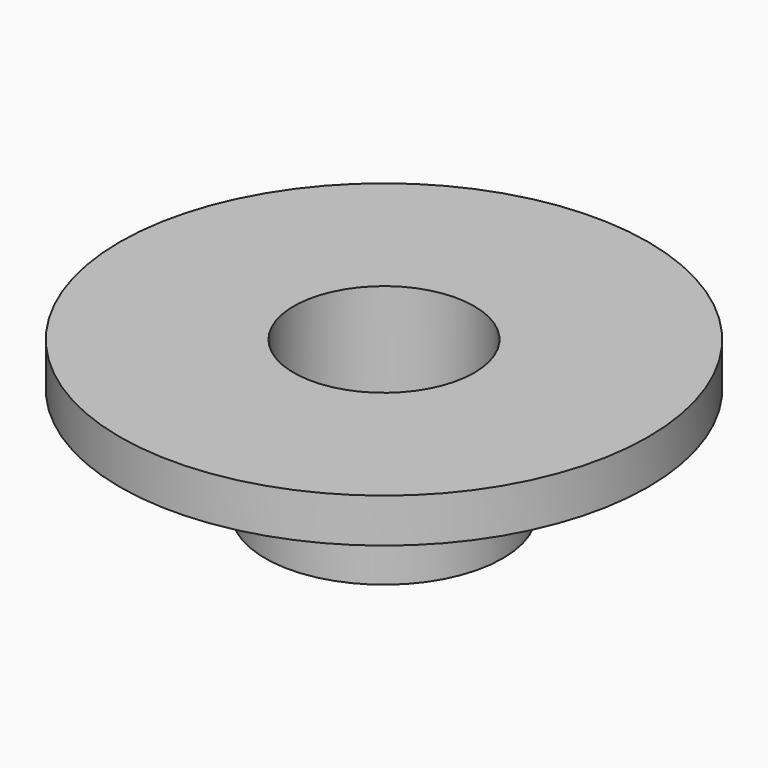
from build123d import *

# Parameters (mm, degrees)
SKETCH_R      = 6
SKETCH_R_2    = 2.05
PAD_DEPTH     = 1
SKETCH001_R   = 2.7
SKETCH001_R_2 = 2.05
PAD001_DEPTH  = 2.5


with BuildPart() as part:
    # Sketch → Pad (new body)
    with BuildSketch(Plane.XY):
        Circle(SKETCH_R)
        Circle(SKETCH_R_2, mode=Mode.SUBTRACT)
    extrude(amount=PAD_DEPTH)

    # Sketch001 (on Face3 of Pad) → Pad001 (join)
    with BuildSketch(Plane(origin=(0, 0, 0), x_dir=(1, 0, 0), z_dir=(0, 0, -1))):
        Circle(SKETCH001_R)
        Circle(SKETCH001_R_2, mode=Mode.SUBTRACT)
    extrude(amount=PAD001_DEPTH)


solid = part.part
